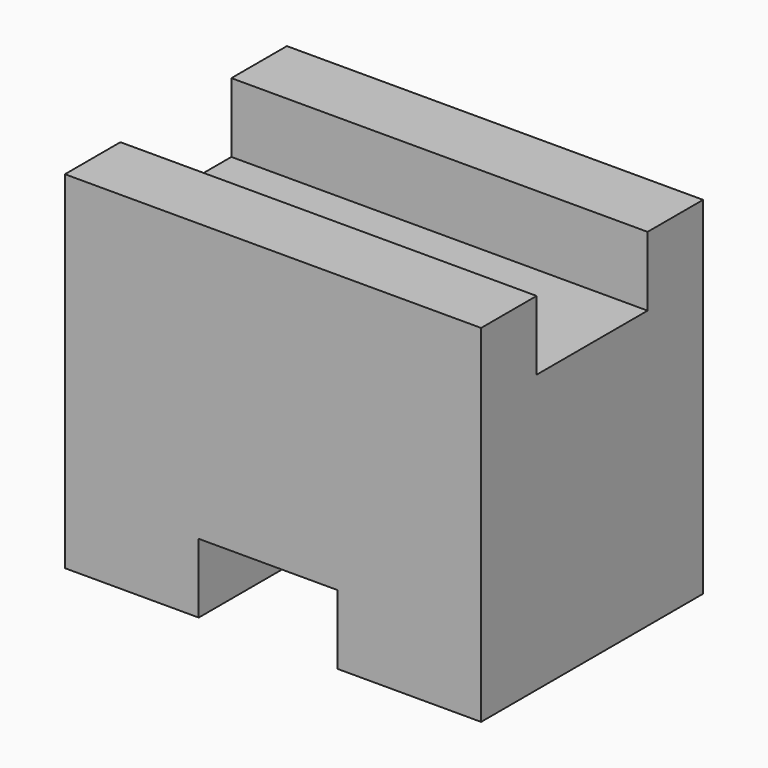
from build123d import *

# Parameters (mm, degrees)
F1_DEPTH = 38.1
F2_W     = 12.7
F2_H     = 6.35
F3_DEPTH = 25.4


with BuildPart() as f1:
    # F0 (on Right) → F1 (new body)
    with BuildSketch(Plane.YZ):
        Polygon((0, 31.75), (0, 0), (25.4, 0), (25.4, 31.75), (19.05, 31.75), (19.05, 25.4), (6.35, 25.4), (6.35, 31.75), align=None)
    extrude(amount=F1_DEPTH)

    # F2 (on Front) → F3 (cut)
    with BuildSketch(Plane.XZ):
        with Locations((18.599593, 3.175)):
            Rectangle(F2_W, F2_H)
    extrude(amount=-F3_DEPTH, mode=Mode.SUBTRACT)


solid = f1.part
